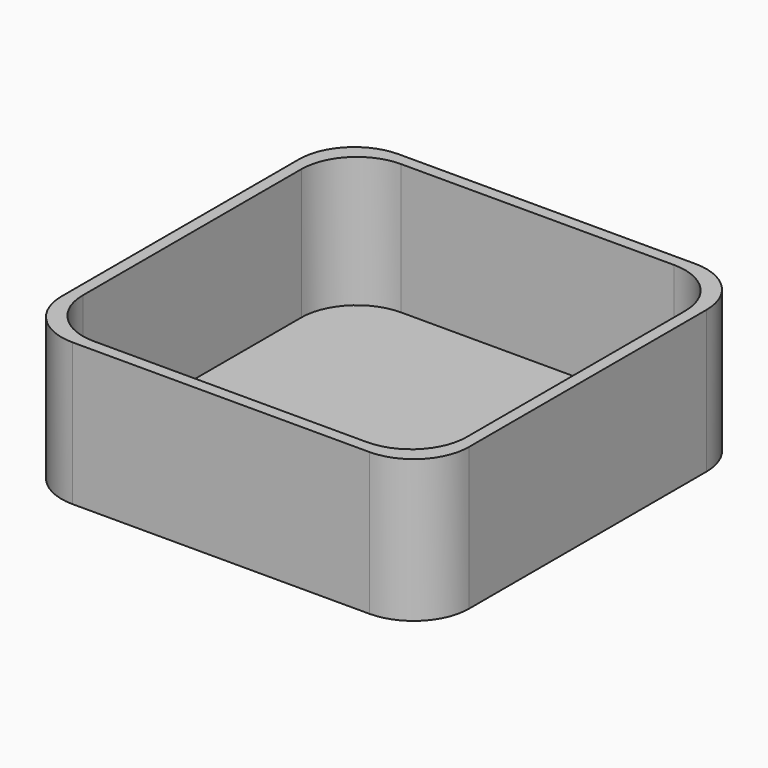
from build123d import *

# Parameters (mm, degrees)
F1_DEPTH = 1.5
F3_DEPTH = 16.5


with BuildPart() as f1:
    # F0 (on Top) → F1 (new body)
    with BuildSketch(Plane.XY):
        with BuildLine():
            Line((3.764683, 27.927522), (-33.735317, 27.927522))
            ThreePointArc((-33.735317, 27.927522), (-38.685065, 25.877269), (-40.735317, 20.927522))
            Line((-40.735317, 20.927522), (-40.735317, -16.572478))
            ThreePointArc((-40.735317, -16.572478), (-38.685065, -21.522226), (-33.735317, -23.572478))
            Line((-33.735317, -23.572478), (3.764683, -23.572478))
            ThreePointArc((3.764683, -23.572478), (8.71443, -21.522226), (10.764683, -16.572478))
            Line((10.764683, -16.572478), (10.764683, 20.927522))
            ThreePointArc((10.764683, 20.927522), (8.71443, 25.877269), (3.764683, 27.927522))
        make_face()
    extrude(amount=F1_DEPTH)

    # F2 (on face) → F3 (join)
    with BuildSketch(Plane.XY.offset(1.5)):
        with BuildLine():
            ThreePointArc((9.264683, -15.072478), (7.21443, -20.022226), (2.264683, -22.072478))
            Line((2.264683, -22.072478), (-14.808783, -22.072478))
            Line((-14.808783, -22.072478), (-14.808783, -23.572478))
            Line((-14.808783, -23.572478), (3.764683, -23.572478))
            ThreePointArc((3.764683, -23.572478), (8.71443, -21.522226), (10.764683, -16.572478))
            Line((10.764683, -16.572478), (10.764683, 0))
            Line((10.764683, 0), (9.264683, 0))
            Line((9.264683, 0), (9.264683, -15.072478))
        make_face()
        with BuildLine():
            Line((-14.808783, -23.572478), (-14.808783, -22.072478))
            Line((-14.808783, -22.072478), (-32.235317, -22.072478))
            ThreePointArc((-32.235317, -22.072478), (-37.185065, -20.022226), (-39.235317, -15.072478))
            Line((-39.235317, -15.072478), (-39.235317, 2.177522))
            Line((-39.235317, 2.177522), (-40.735317, 2.177522))
            Line((-40.735317, 2.177522), (-40.735317, -16.572478))
            ThreePointArc((-40.735317, -16.572478), (-38.685065, -21.522226), (-33.735317, -23.572478))
            Line((-33.735317, -23.572478), (-14.808783, -23.572478))
        make_face()
        with BuildLine():
            Line((-40.735317, 2.177522), (-39.235317, 2.177522))
            Line((-39.235317, 2.177522), (-39.235317, 19.427522))
            ThreePointArc((-39.235317, 19.427522), (-37.185065, 24.377269), (-32.235317, 26.427522))
            Line((-32.235317, 26.427522), (-14.985317, 26.427522))
            Line((-14.985317, 26.427522), (-14.985317, 27.927522))
            Line((-14.985317, 27.927522), (-33.735317, 27.927522))
            ThreePointArc((-33.735317, 27.927522), (-38.685065, 25.877269), (-40.735317, 20.927522))
            Line((-40.735317, 20.927522), (-40.735317, 2.177522))
        make_face()
        with BuildLine():
            Line((9.264683, 19.427522), (9.264683, 0))
            Line((9.264683, 0), (10.764683, 0))
            Line((10.764683, 0), (10.764683, 20.927522))
            ThreePointArc((10.764683, 20.927522), (8.71443, 25.877269), (3.764683, 27.927522))
            Line((3.764683, 27.927522), (-14.985317, 27.927522))
            Line((-14.985317, 27.927522), (-14.985317, 26.427522))
            Line((-14.985317, 26.427522), (2.264683, 26.427522))
            ThreePointArc((2.264683, 26.427522), (7.21443, 24.377269), (9.264683, 19.427522))
        make_face()
    extrude(amount=F3_DEPTH)


solid = f1.part
